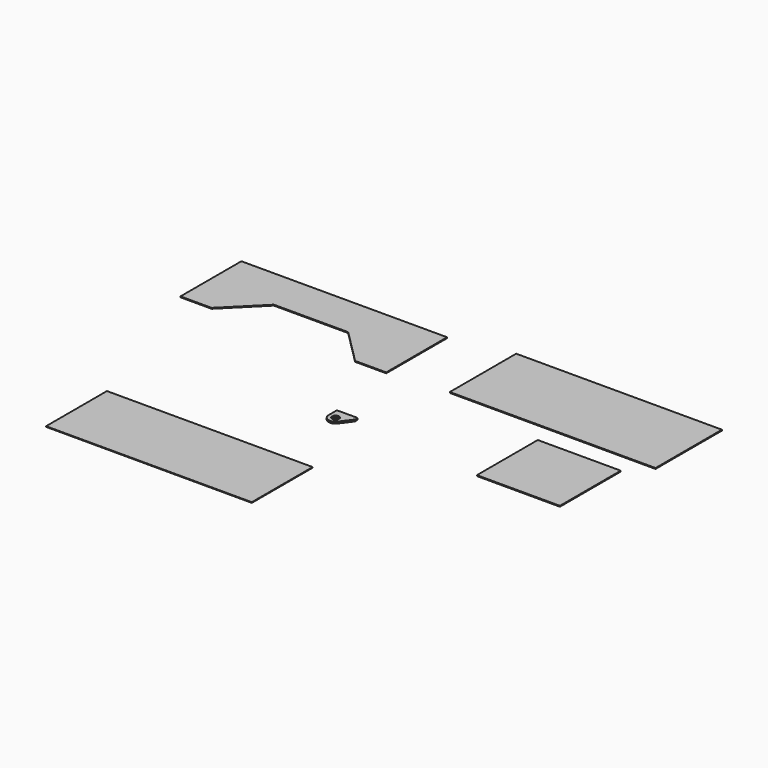
from build123d import *

# Parameters (mm, degrees)
F0_W      = 1511.3
F0_H      = 558.8
F1_DEPTH  = 6.35
F2_W      = 1511.3
F2_H      = 609.6
F3_DEPTH  = 6.35
F5_DEPTH  = 6.351
F6_DEPTH  = 25.4
F7_W      = 609.6
F7_H      = 558.8
F8_DEPTH  = 6.35
F9_R      = 25.4
F10_DEPTH = 12.7
F11_W     = 1511.3
F11_H     = 558.8
F12_DEPTH = 4.7625


with BuildPart() as f1:
    # F0 (on Top) → F1 (new body)
    with BuildSketch(Plane.XY):
        with Locations((-774.6387154847, 242.0941420138)):
            Rectangle(F0_W, F0_H)
    extrude(amount=F1_DEPTH)

    # F4 (on face) → F5 (cut, through all)
    with BuildSketch(Plane(origin=(0, 0, 0), x_dir=(1, 0, 0), z_dir=(0, 0, -1))):
        Polygon((-1301.6887154847, 37.3058579862), (-1047.6887154847, -216.6941420138), (-501.5887154847, -216.6941420138), (-247.5887154847, 37.3058579862), align=None)
    extrude(amount=-F5_DEPTH, mode=Mode.SUBTRACT)

    # F4 (on face) → F6 (cut)
    with BuildSketch(Plane(origin=(0, 0, 0), x_dir=(1, 0, 0), z_dir=(0, 0, -1))):
        Polygon((-1301.6887154847, 37.3058579862), (-1047.6887154847, -216.6941420138), (-501.5887154847, -216.6941420138), (-247.5887154847, 37.3058579862), align=None)
    extrude(amount=F6_DEPTH, mode=Mode.SUBTRACT)


with BuildPart() as f3:
    # F2 (on Top) → F3 (new body)
    with BuildSketch(Plane.XY):
        with Locations((1173.9777785778, 304.8)):
            Rectangle(F2_W, F2_H)
    extrude(amount=F3_DEPTH)


with BuildPart() as f8:
    # F7 (on Top) → F8 (new body)
    with BuildSketch(Plane.XY):
        with Locations((1489.716138649, -429.9723416328)):
            Rectangle(F7_W, F7_H)
    extrude(amount=F8_DEPTH)


with BuildPart() as f10:
    # F9 (on Top) → F10 (new body)
    with BuildSketch(Plane.XY):
        with BuildLine():
            Line((214.5354460064, -616.6391396422), (214.5354460064, -591.2391396422))
            Line((214.5354460064, -591.2391396422), (62.1354460064, -591.2391396422))
            Line((62.1354460064, -591.2391396422), (62.1354460064, -667.4391396422))
            ThreePointArc((62.1354460064, -667.4391396422), (96.8710754928, -715.6322511832), (153.5754460064, -697.9191396422))
            Line((153.5754460064, -697.9191396422), (214.5354460064, -616.6391396422))
        make_face()
        with Locations((112.9354460064, -667.4391396422)):
            Circle(F9_R, mode=Mode.SUBTRACT)
    extrude(amount=F10_DEPTH)


with BuildPart() as f12:
    # F11 (on Top) → F12 (new body)
    with BuildSketch(Plane.XY):
        with Locations((-371.2038236618, -1496.5250402451)):
            Rectangle(F11_W, F11_H)
    extrude(amount=F12_DEPTH)


solid = Compound([f1.part, f3.part, f8.part, f10.part, f12.part])
